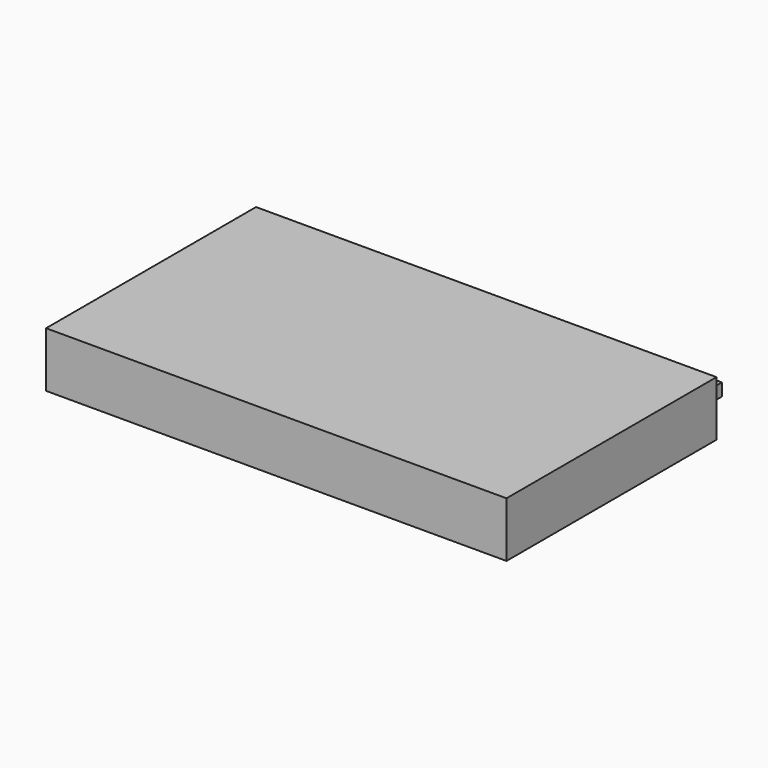
from build123d import *

# Parameters (mm, degrees)
F0_W     = 482.6
F0_H     = 57.8357067246
F1_DEPTH = 275.082
F2_W     = 53.1876
F2_H     = 13.081
F3_DEPTH = 25.4
F5_DEPTH = 25.4


with BuildPart() as f1:
    # F0 (on Front) → F1 (new body)
    with BuildSketch(Plane.XZ):
        with Locations((-28.7254893436, 28.9178533623)):
            Rectangle(F0_W, F0_H)
    extrude(amount=F1_DEPTH)

    # F2 (on face) → F3 (join)
    with BuildSketch(Plane(origin=(0, 0, 0), x_dir=(-1, 0, 0), z_dir=(0, 1, 0))):
        Polygon((-144.7912243771, 37.8729373214), (-197.9788243771, 37.8729373214), (-197.9788243771, 24.7919373214), (-176.1856243771, 24.7919373214), (-144.7912243771, 24.7919373214), align=None)
        with Locations((184.2149756229, 31.3324373214)):
            Rectangle(F2_W, F2_H)
    extrude(amount=F3_DEPTH)

    # F4 (on face) → F5 (cut)
    with BuildSketch(Plane(origin=(0, 0, 0), x_dir=(1, 0, 0), z_dir=(0, 0, -1))):
        Polygon((-63.9737658203, 199.9119593865), (-63.9737658203, 182.5637593865), (37.5036071055, 182.5637593865), (37.6262341797, 199.9119593865), align=None)
    extrude(amount=-F5_DEPTH, mode=Mode.SUBTRACT)


solid = f1.part
